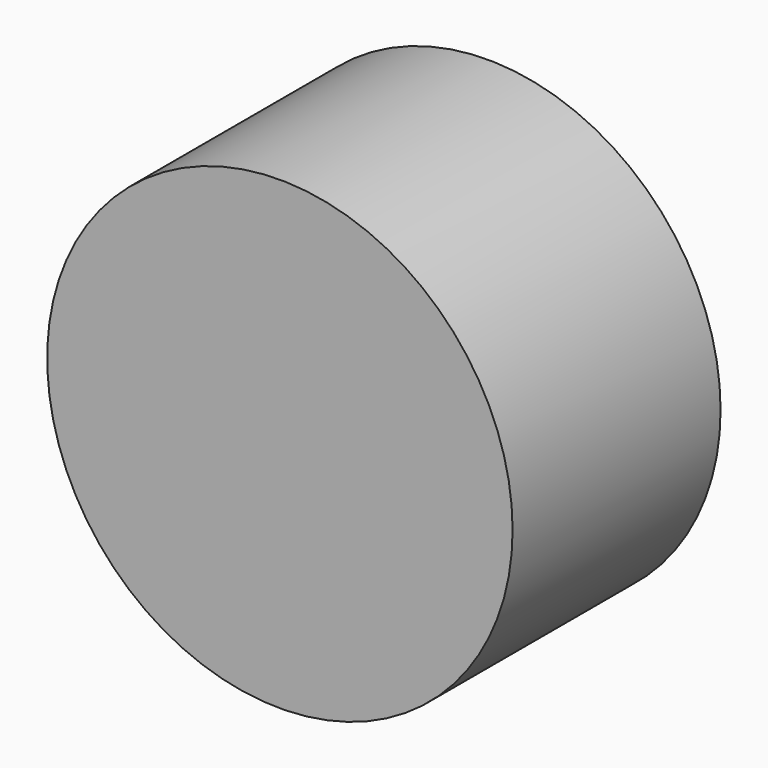
from build123d import *

# Parameters (mm, degrees)
F0_R          = 45.473305
F1_DEPTH      = 25.4
F1_DEPTH_BACK = 25.4


with BuildPart() as f1:
    # F0 (on Front) → F1 (new body, two sides)
    with BuildSketch(Plane.XZ) as f1_sk:
        with Locations((111.499123, 0)):
            Circle(F0_R)
    extrude(amount=F1_DEPTH)
    extrude(f1_sk.sketch, amount=-F1_DEPTH_BACK)


solid = f1.part
